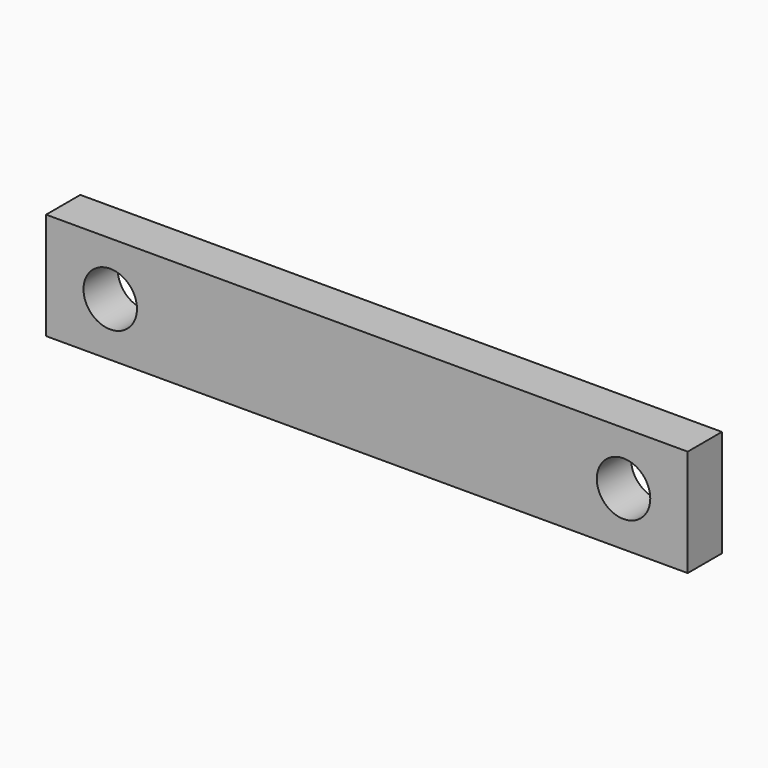
from build123d import *

# Parameters (mm, degrees)
F0_W     = 76.2
F0_H     = 12.7
F0_R     = 3.175
F1_DEPTH = 5.08


with BuildPart() as f1:
    # F0 (on Front) → F1 (new body)
    with BuildSketch(Plane.XZ):
        Rectangle(F0_W, F0_H)
        with Locations((-30.48, 0)):
            Circle(F0_R, mode=Mode.SUBTRACT)
        with Locations((30.48, 0)):
            Circle(F0_R, mode=Mode.SUBTRACT)
        Rectangle(F0_W, F0_H)
        with Locations((-30.48, 0)):
            Circle(F0_R, mode=Mode.SUBTRACT)
        with Locations((30.48, 0)):
            Circle(F0_R, mode=Mode.SUBTRACT)
    extrude(amount=F1_DEPTH)


solid = f1.part
